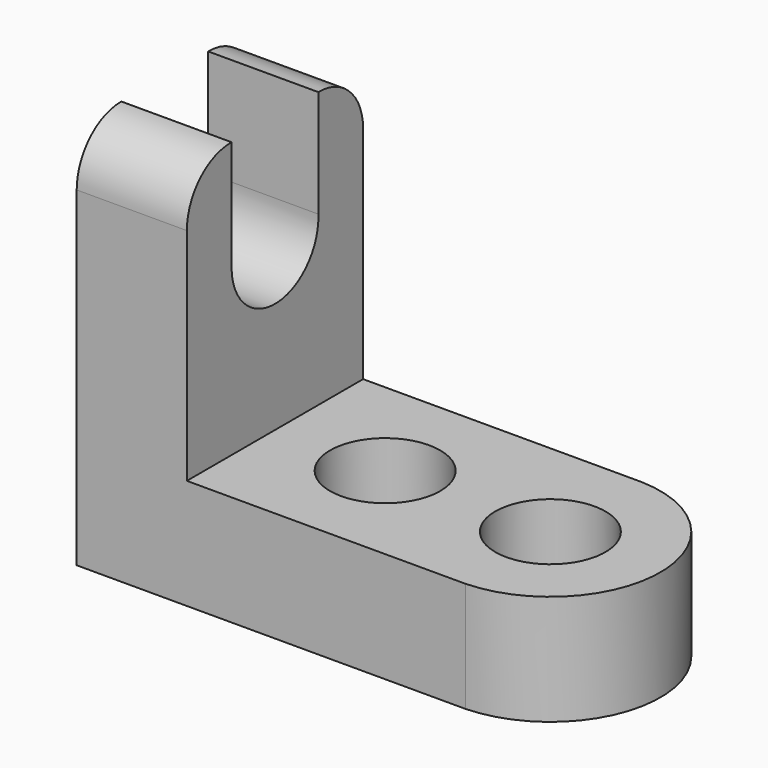
from build123d import *

# Parameters (mm, degrees)
F1_DEPTH = 25.4
F3_DEPTH = 25.4
F4_R     = 6.35
F5_R     = 6.35
F6_R     = 6.35
F7_DEPTH = 25.4
F9_DEPTH = 25.4


with BuildPart() as f1:
    # F0 (on Front) → F1 (new body)
    with BuildSketch(Plane.XZ):
        Polygon((0, 44.45), (0, 0), (57.15, 0), (57.15, 12.7), (12.7, 12.7), (12.7, 44.45), align=None)
    extrude(amount=F1_DEPTH)

    # F2 (on face) → F3 (cut)
    with BuildSketch(Plane.YZ.offset(12.7)):
        with BuildLine():
            Line((-18.952827, 31.572765), (-18.952827, 31.927235))
            ThreePointArc((-18.952827, 31.927235), (-18.955339, 31.75), (-18.952827, 31.572765))
        make_face()
        with BuildLine():
            Line((-12.7, 44.45), (-18.952827, 44.45))
            Line((-18.952827, 44.45), (-18.952827, 31.927235))
            Line((-18.952827, 31.927235), (-18.952827, 31.572765))
            ThreePointArc((-18.952827, 31.572765), (-12.452628, 25.499555), (-6.452723, 32.067478))
            Line((-6.452723, 32.067478), (-6.452723, 44.45))
            Line((-6.452723, 44.45), (-12.7, 44.45))
        make_face()
    extrude(amount=-F3_DEPTH, mode=Mode.SUBTRACT)

    # F4
    f4_edges = [f1.edges().sort_by_distance(p)[0] for p in [
        (6.35, -25.4, 44.45),
    ]]
    fillet(f4_edges, radius=F4_R)

    # F5
    f5_edges = [f1.edges().sort_by_distance(p)[0] for p in [
        (6.35, 0, 44.45),
    ]]
    fillet(f5_edges, radius=F5_R)

    # F6 (on face) → F7 (cut)
    with BuildSketch(Plane.XY.offset(12.7)):
        with Locations((25.4, -12.7)):
            Circle(F6_R)
        with BuildLine():
            ThreePointArc((50.8, -12.7), (44.45, -6.35), (38.1, -12.7))
            ThreePointArc((38.1, -12.7), (44.45, -19.05), (50.8, -12.7))
        make_face()
    extrude(amount=-F7_DEPTH, mode=Mode.SUBTRACT)

    # F8 (on face) → F9 (cut)
    with BuildSketch(Plane.XY.offset(12.7)):
        with BuildLine():
            Line((57.15, -25.4), (57.15, 0))
            Line((57.15, 0), (44.818241, 0))
            ThreePointArc((44.818241, 0), (57.130088, -12.7), (44.818241, -25.4))
            Line((44.818241, -25.4), (57.15, -25.4))
        make_face()
    extrude(amount=-F9_DEPTH, mode=Mode.SUBTRACT)


solid = f1.part
